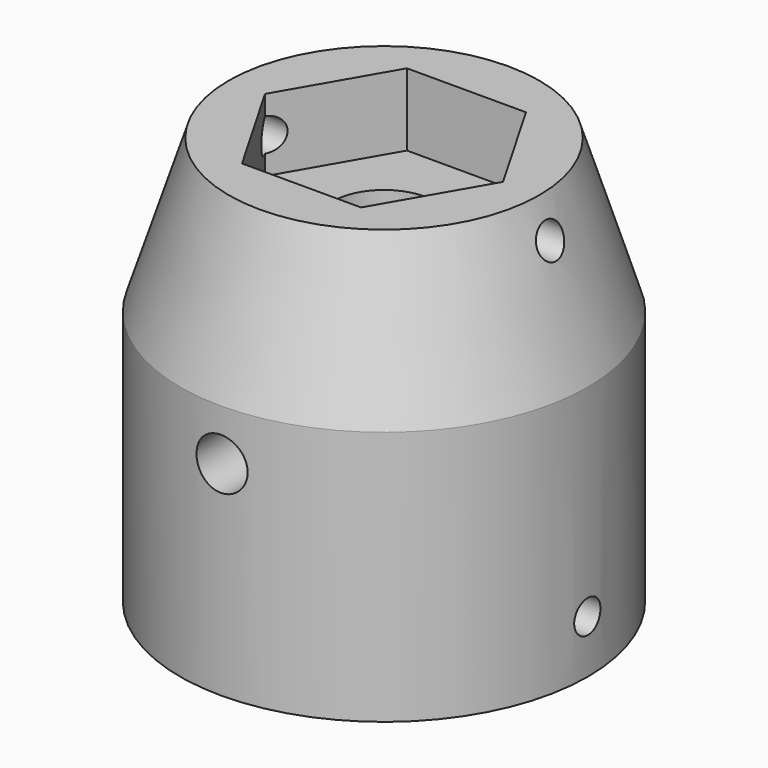
from build123d import *

# Parameters (mm, degrees)
PRISM_DEPTH       = 0.62
PRISM001_DEPTH    = 0.455
CYLINDER003_R     = 0.1255
CYLINDER003_DEPTH = 2.2
CYLINDER004_R     = 0.0805
CYLINDER004_DEPTH = 2.2
CYLINDER005_R     = 0.0805
CYLINDER005_DEPTH = 2.2
CYLINDER002_R     = 0.2505
CYLINDER002_DEPTH = 2.2
CYLINDER_R        = 1
CYLINDER_DEPTH    = 1.25
PRISM002_DEPTH    = 0.62
PRISM003_DEPTH    = 0.455
CYLINDER009_R     = 0.1255
CYLINDER009_DEPTH = 2.2
CYLINDER010_R     = 0.0805
CYLINDER010_DEPTH = 2.2
CYLINDER011_R     = 0.0805
CYLINDER011_DEPTH = 2.2
CYLINDER008_R     = 0.2505
CYLINDER008_DEPTH = 2.2
CYLINDER006_R     = 1
CYLINDER006_DEPTH = 1.25


with BuildPart() as prism:
    # prism → prism (new body)
    with BuildSketch(Plane.XY.offset(-0.1)):
        Polygon((0.8225, 0), (0.41125, 0.712306), (-0.41125, 0.712306), (-0.8225, 0), (-0.41125, -0.712306), (0.41125, -0.712306), align=None)
    extrude(amount=PRISM_DEPTH)


with BuildPart() as prism001:
    # prism001 → prism001 (new body)
    with BuildSketch(Plane.XY.offset(1.645)):
        Polygon((0.5835, 0), (0.29175, 0.505326), (-0.29175, 0.505326), (-0.5835, 0), (-0.29175, -0.505326), (0.29175, -0.505326), align=None)
    extrude(amount=PRISM001_DEPTH)


with BuildPart() as cylinder003:
    # cylinder003 → cylinder003 (new body)
    with BuildSketch(Plane(origin=(0, 1.1, 1), x_dir=(1, 0, 0), z_dir=(0, -1, 0))):
        Circle(CYLINDER003_R)
    extrude(amount=CYLINDER003_DEPTH)


with BuildPart() as cylinder004:
    # cylinder004 → cylinder004 (new body)
    with BuildSketch(Plane(origin=(-1.1, 0, 0.26), x_dir=(0, 0, -1), z_dir=(1, 0, 0))):
        Circle(CYLINDER004_R)
    extrude(amount=CYLINDER004_DEPTH)


with BuildPart() as cylinder005:
    # cylinder005 → cylinder005 (new body)
    with BuildSketch(Plane(origin=(-1.1, 0, 1.8225), x_dir=(0, 0, -1), z_dir=(1, 0, 0))):
        Circle(CYLINDER005_R)
    extrude(amount=CYLINDER005_DEPTH)


with BuildPart() as union001:
    # cylinder002 → cylinder002 (new body)
    with BuildSketch(Plane.XY.offset(-0.1)):
        Circle(CYLINDER002_R)
    extrude(amount=CYLINDER002_DEPTH)

    # union001: union prism, prism001, cylinder003, cylinder004, cylinder005
    add(prism.part)
    add(prism001.part)
    add(cylinder003.part)
    add(cylinder004.part)
    add(cylinder005.part)


with BuildPart() as cylinder001:
    # cylinder001 → cylinder001 (revolve)
    with BuildSketch(Plane(origin=(0, 0, 1.25), x_dir=(1, 0, 0), z_dir=(0, -1, 0))):
        Polygon((0, 0), (1, 0), (0.761, 0.75), (0, 0.75), align=None)
    revolve(axis=Axis((0, 0, 1.25), (0, 0, 1)))


with BuildPart() as difference:
    # cylinder → cylinder (new body)
    with BuildSketch(Plane.XY):
        Circle(CYLINDER_R)
    extrude(amount=CYLINDER_DEPTH)

    # union: union cylinder001
    add(cylinder001.part)

    # difference: cut union001
    add(union001.part, mode=Mode.SUBTRACT)


with BuildPart() as prism002:
    # prism002 → prism002 (new body)
    with BuildSketch(Plane.XY.offset(-0.1)):
        Polygon((0.8225, 0), (0.41125, 0.712306), (-0.41125, 0.712306), (-0.8225, 0), (-0.41125, -0.712306), (0.41125, -0.712306), align=None)
    extrude(amount=PRISM002_DEPTH)


with BuildPart() as prism003:
    # prism003 → prism003 (new body)
    with BuildSketch(Plane.XY.offset(1.645)):
        Polygon((0.5835, 0), (0.29175, 0.505326), (-0.29175, 0.505326), (-0.5835, 0), (-0.29175, -0.505326), (0.29175, -0.505326), align=None)
    extrude(amount=PRISM003_DEPTH)


with BuildPart() as cylinder009:
    # cylinder009 → cylinder009 (new body)
    with BuildSketch(Plane(origin=(0, 1.1, 1), x_dir=(1, 0, 0), z_dir=(0, -1, 0))):
        Circle(CYLINDER009_R)
    extrude(amount=CYLINDER009_DEPTH)


with BuildPart() as cylinder010:
    # cylinder010 → cylinder010 (new body)
    with BuildSketch(Plane(origin=(-1.1, 0, 0.26), x_dir=(0, 0, -1), z_dir=(1, 0, 0))):
        Circle(CYLINDER010_R)
    extrude(amount=CYLINDER010_DEPTH)


with BuildPart() as cylinder011:
    # cylinder011 → cylinder011 (new body)
    with BuildSketch(Plane(origin=(-1.1, 0, 1.8225), x_dir=(0, 0, -1), z_dir=(1, 0, 0))):
        Circle(CYLINDER011_R)
    extrude(amount=CYLINDER011_DEPTH)


with BuildPart() as union003:
    # cylinder008 → cylinder008 (new body)
    with BuildSketch(Plane.XY.offset(-0.1)):
        Circle(CYLINDER008_R)
    extrude(amount=CYLINDER008_DEPTH)

    # union003: union prism002, prism003, cylinder009, cylinder010, cylinder011
    add(prism002.part)
    add(prism003.part)
    add(cylinder009.part)
    add(cylinder010.part)
    add(cylinder011.part)


with BuildPart() as cylinder007:
    # cylinder007 → cylinder007 (revolve)
    with BuildSketch(Plane(origin=(0, 0, 1.25), x_dir=(1, 0, 0), z_dir=(0, -1, 0))):
        Polygon((0, 0), (1, 0), (0.761, 0.75), (0, 0.75), align=None)
    revolve(axis=Axis((0, 0, 1.25), (0, 0, 1)))


with BuildPart() as difference001:
    # cylinder006 → cylinder006 (new body)
    with BuildSketch(Plane.XY):
        Circle(CYLINDER006_R)
    extrude(amount=CYLINDER006_DEPTH)

    # union002: union cylinder007
    add(cylinder007.part)

    # difference001: cut union003
    add(union003.part, mode=Mode.SUBTRACT)


solid = Compound([difference.part, difference001.part])
